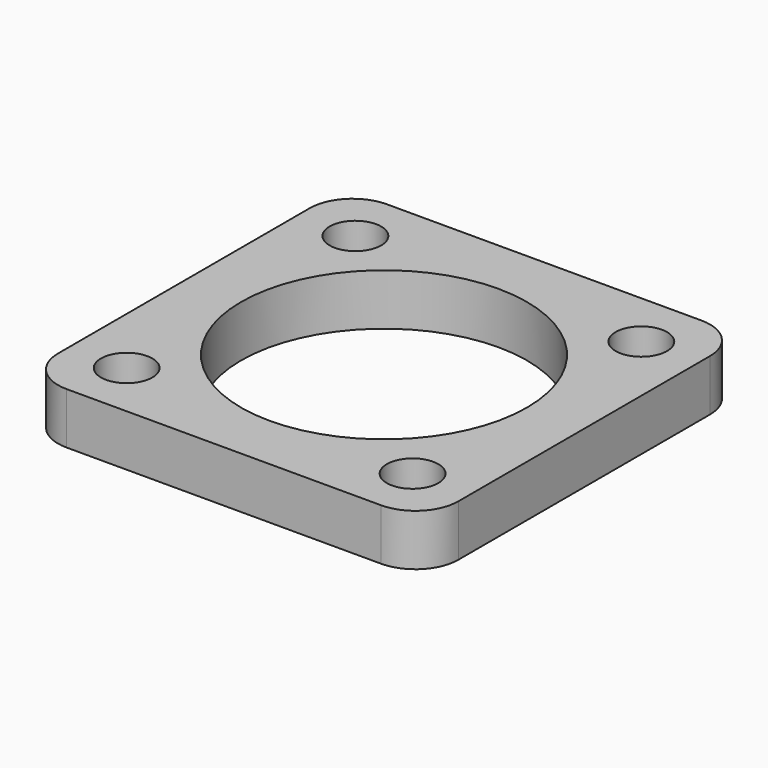
from build123d import *

# Parameters (mm, degrees)
F0_W     = 140
F0_H     = 140
F1_DEPTH = 18
F2_R     = 15
F4_D     = 18
F5_R     = 50
F6_DEPTH = 18.001


with BuildPart() as f1:
    # F0 (on Top) → F1 (new body)
    with BuildSketch(Plane.XY):
        with Locations((70, -70)):
            Rectangle(F0_W, F0_H)
    extrude(amount=F1_DEPTH)

    # F2
    f2_edges = [f1.edges().sort_by_distance(p)[0] for p in [
        (0, -140, 9),
        (140, -140, 9),
        (140, 0, 9),
        (0, 0, 9),
    ]]
    fillet(f2_edges, radius=F2_R)

    # F4 (through all)
    with Locations(Plane.XY.offset(18)):
        with Locations((120, -120), (20, -120), (20, -20), (120, -20)):
            Hole(F4_D / 2)

    # F5 (on face) → F6 (cut, through all)
    with BuildSketch(Plane.XY.offset(18)):
        with Locations((70, -70)):
            Circle(F5_R)
    extrude(amount=-F6_DEPTH, mode=Mode.SUBTRACT)


solid = f1.part
